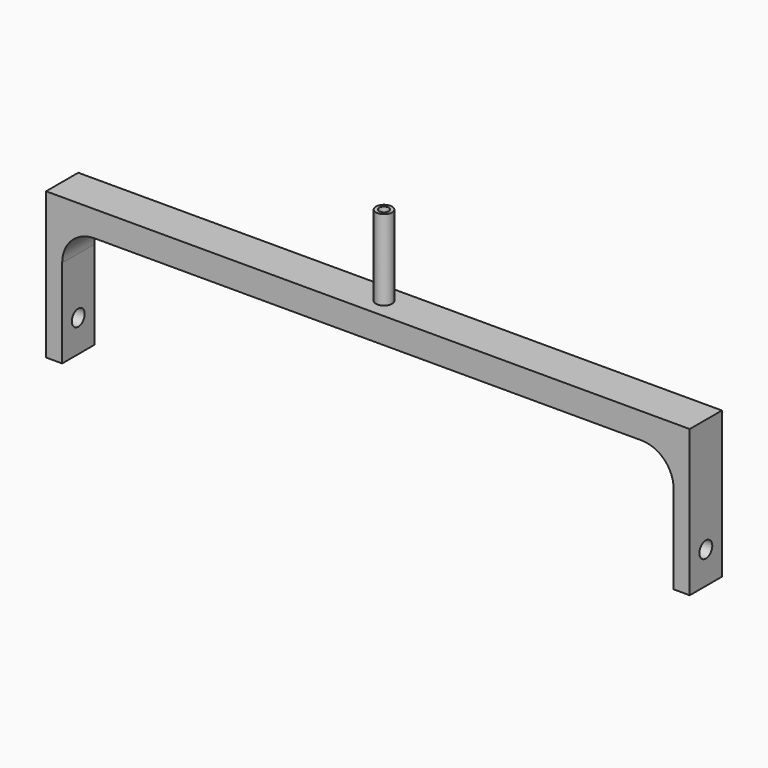
from build123d import *

# Parameters (mm, degrees)
F0_W     = 10
F0_H     = 75
F1_DEPTH = 12.5
F2_R     = 5
F3_DEPTH = 400.001
F4_R     = 5
F5_DEPTH = 50
F6_R     = 20
F7_R     = 3
F8_DEPTH = 140.9584442942


with BuildPart() as f1:
    # F0 (on Front) → F1 (new body, symmetric)
    with BuildSketch(Plane.XZ):
        Polygon((129.7779953739, 41.1399305532), (-70.2220046261, 41.1399305532), (-70.2220046261, 25.182486259), (-60.2220046261, 25.182486259), (129.7779953739, 25.182486259), align=None)
        Polygon((329.7779953739, 41.1399305532), (129.7779953739, 41.1399305532), (129.7779953739, 25.182486259), (319.7779953739, 25.182486259), (329.7779953739, 25.182486259), align=None)
        with Locations((-65.2220046261, -12.317513741)):
            Rectangle(F0_W, F0_H)
        with Locations((324.7779953739, -12.317513741)):
            Rectangle(F0_W, F0_H)
    extrude(amount=F1_DEPTH, both=True)

    # F2 (on face) → F3 (cut, through all)
    with BuildSketch(Plane(origin=(-70.2220046261, 0, 0), x_dir=(0, -1, 0), z_dir=(-1, 0, 0))):
        with Locations((0, -29.817513741)):
            Circle(F2_R)
    extrude(amount=-F3_DEPTH, mode=Mode.SUBTRACT)

    # F4 (on face) → F5 (join)
    with BuildSketch(Plane.XY.offset(41.1399305532)):
        with Locations((129.7779953739, 0)):
            Circle(F4_R)
    extrude(amount=F5_DEPTH)

    # F6
    f6_edges = [f1.edges().sort_by_distance(p)[0] for p in [
        (-60.222005, 0, 25.182486),
        (319.777995, 0, 25.182486),
    ]]
    fillet(f6_edges, radius=F6_R)

    # F7 (on face) → F8 (cut, through all)
    with BuildSketch(Plane.XY.offset(91.1399305532)):
        with Locations((129.7779953739, 0)):
            Circle(F7_R)
    extrude(amount=-F8_DEPTH, mode=Mode.SUBTRACT)


solid = f1.part
